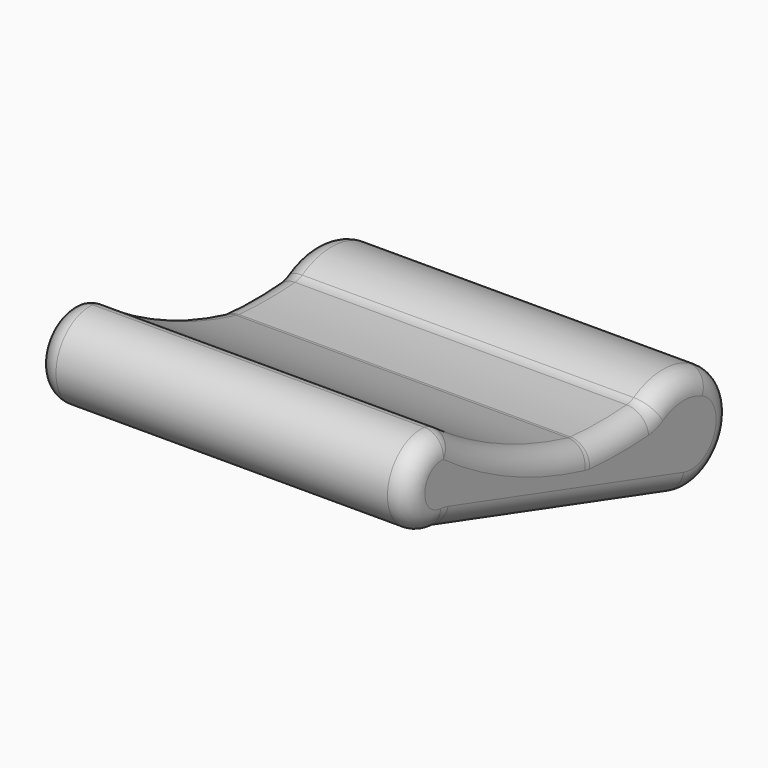
from build123d import *

# Parameters (mm, degrees)
F1_DEPTH = 228.6
F2_R     = 25.4


with BuildPart() as f1:
    # F0 (on Right) → F1 (new body, symmetric)
    with BuildSketch(Plane.YZ):
        with BuildLine():
            ThreePointArc((-397.279083, 225.959099), (-461.086876, 183.29803), (-410.897082, 125.225783))
            Line((-410.897082, 125.225783), (-46.446397, 14.155093))
            ThreePointArc((-46.446397, 14.155093), (31.406704, 51.789828), (0, 132.357175))
            ThreePointArc((0, 132.357175), (-45.230298, 141.1617), (-88.834917, 126.264159))
            ThreePointArc((-88.834917, 126.264159), (-136.030627, 124.157236), (-183.226337, 126.264159))
            ThreePointArc((-183.226337, 126.264159), (-295.26164, 165.357068), (-397.279083, 225.959099))
        make_face()
    extrude(amount=F1_DEPTH, both=True)

    # F2
    f2_edges = [f1.edges().sort_by_distance(p)[0] for p in [
        (-228.6, -461.086876, 183.29803),
        (-228.6, -228.671739, 69.690438),
        (-228.6, 31.406704, 51.789828),
        (-228.6, -45.230298, 141.1617),
        (-228.6, -136.030627, 124.157236),
        (-228.6, -295.26164, 165.357068),
        (228.6, -461.086876, 183.29803),
        (228.6, -228.671739, 69.690438),
        (228.6, 31.406704, 51.789828),
        (228.6, -45.230298, 141.1617),
        (228.6, -136.030627, 124.157236),
        (228.6, -295.26164, 165.357068),
        (0, -183.226337, 126.264159),
        (0, -88.834917, 126.264159),
        (0, 0, 132.357175),
        (0, -397.279083, 225.959099),
        (0, -410.897082, 125.225783),
        (0, -46.446397, 14.155093),
    ]]
    fillet(f2_edges, radius=F2_R)


solid = f1.part
